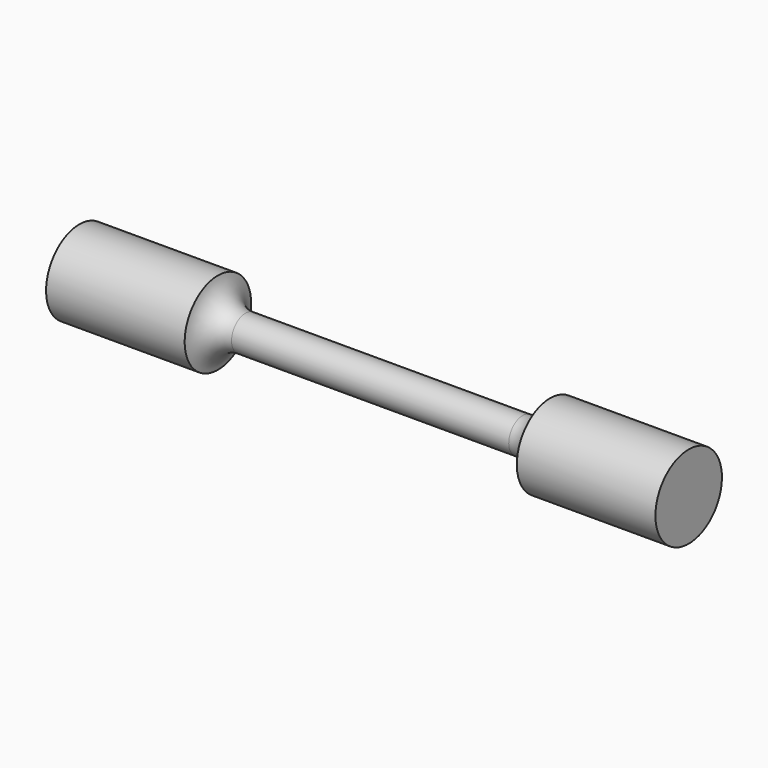
from build123d import *


with BuildPart() as f1:
    # F0 (on Front) → F1 (revolve)
    with BuildSketch(Plane.XZ):
        with BuildLine():
            Line((-21.984313, 0), (0, 0))
            Line((0, 0), (0, 1.25))
            Line((0, 1.25), (-10, 1.25))
            ThreePointArc((-10, 1.25), (-11.322876, 1.75), (-11.984313, 3))
            Line((-11.984313, 3), (-21.984313, 3))
            Line((-21.984313, 3), (-21.984313, 0))
        make_face()
        with BuildLine():
            Line((0, 1.25), (0, 0))
            Line((0, 0), (21.984313, 0))
            Line((21.984313, 0), (21.984313, 3))
            Line((21.984313, 3), (11.984313, 3))
            ThreePointArc((11.984313, 3), (11.322876, 1.75), (10, 1.25))
            Line((10, 1.25), (0, 1.25))
        make_face()
    revolve(axis=Axis((0, 0, 0), (1, 0, 0)))


solid = f1.part
